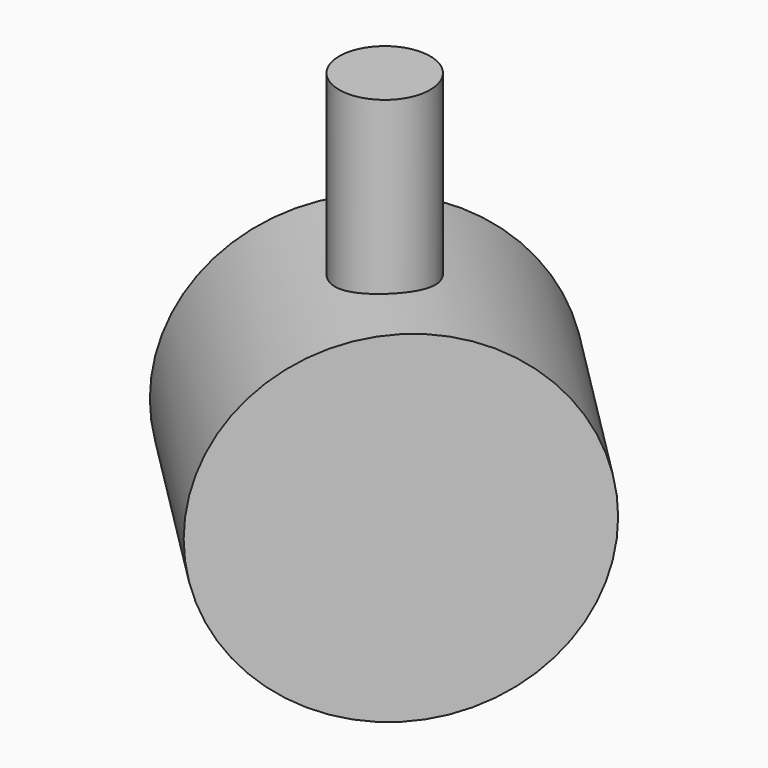
from build123d import *

# Parameters (mm, degrees)
F0_R     = 30
F1_DEPTH = 42
F2_R     = 8
F3_DEPTH = 60
F4_ANGLE = 45


with BuildPart() as f1:
    # F0 (on Front) → F1 (new body)
    with BuildSketch(Plane.XZ):
        Circle(F0_R)
    extrude(amount=F1_DEPTH)

    # F2 (on Top) → F3 (join)
    with BuildSketch(Plane.XY):
        with Locations((0, -21.890162)):
            Circle(F2_R)
    extrude(amount=F3_DEPTH)


with BuildPart() as f1_1:
    # F4: moved
    add(f1.part.rotate(Axis((0, -21.890162, 60), (0, 0, 1)), F4_ANGLE))


solid = f1_1.part
